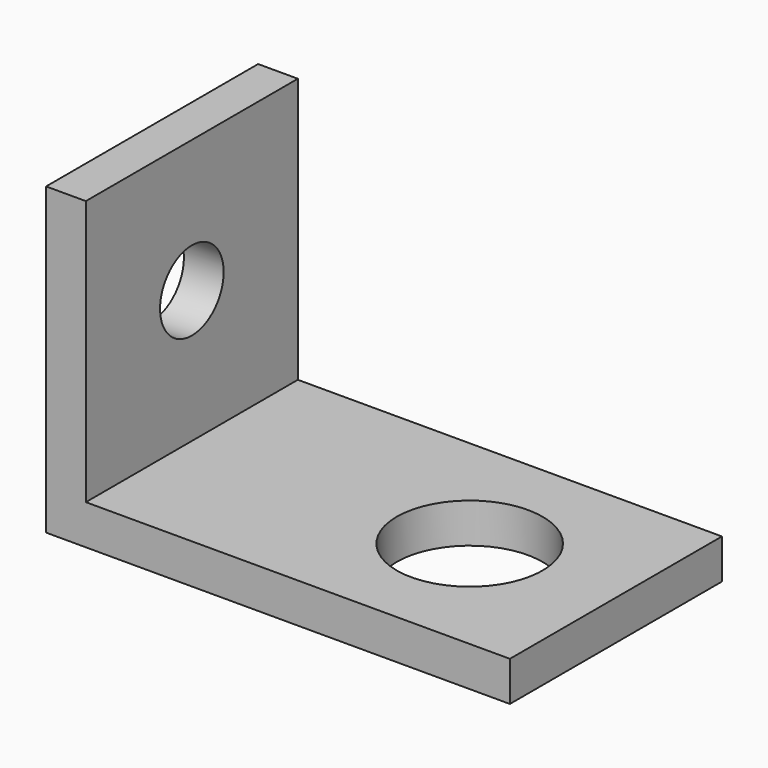
from build123d import *

# Parameters (mm, degrees)
F1_DEPTH = 3
F2_W     = 3
F2_H     = 20
F3_DEPTH = 20
F4_R     = 3
F5_DEPTH = 3.001


with BuildPart() as f1:
    # F0 (on Top) → F1 (new body)
    with BuildSketch(Plane.XY):
        Polygon((0, 10), (0, 0), (0, -10), (35, -10), (35, 0), (35, 10), align=None)
        with BuildLine():
            ThreePointArc((29.466326, 0), (23.966326, -5.5), (18.466326, 0))
            ThreePointArc((18.466326, 0), (23.966326, 5.5), (29.466326, 0))
        make_face(mode=Mode.SUBTRACT)
    extrude(amount=F1_DEPTH)

    # F2 (on face) → F3 (join)
    with BuildSketch(Plane.XY.offset(3)):
        with Locations((1.5, 0)):
            Rectangle(F2_W, F2_H)
    extrude(amount=F3_DEPTH)

    # F4 (on face) → F5 (cut, through all)
    with BuildSketch(Plane.YZ.offset(3)):
        with Locations((0, 13)):
            Circle(F4_R)
    extrude(amount=-F5_DEPTH, mode=Mode.SUBTRACT)


solid = f1.part
